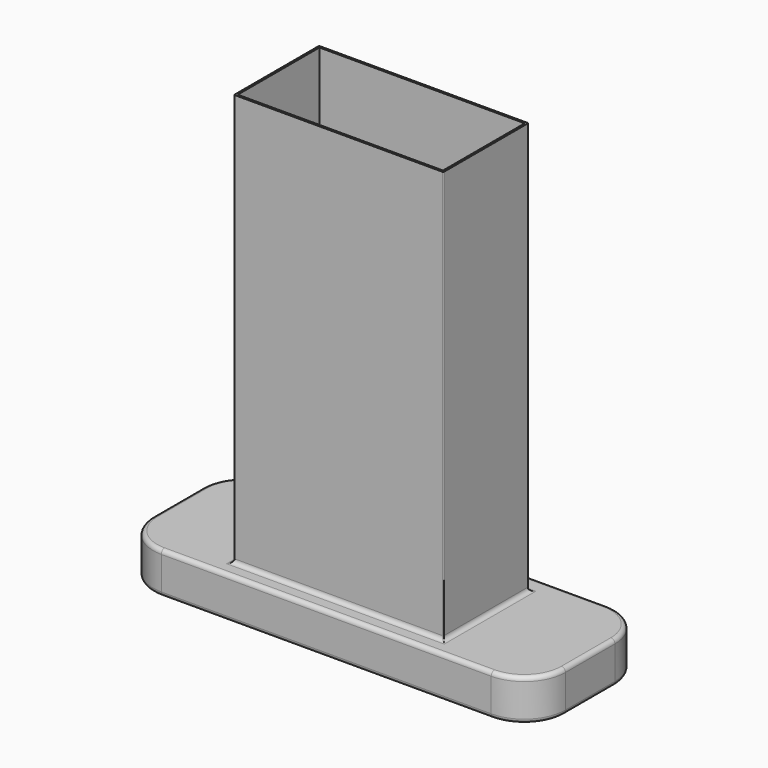
from build123d import *

# Parameters (mm, degrees)
F1_DEPTH = 20
F2_W     = 101.5
F2_H     = 51.5
F3_DEPTH = 200
F4_T     = -1
F5_R     = 2
F6_R     = 0.5


with BuildPart() as f1:
    # F0 (on Top) → F1 (new body)
    with BuildSketch(Plane.XY):
        with BuildLine():
            Line((80, 35), (-80, 35))
            ThreePointArc((-80, 35), (-94.1421356237, 29.1421356237), (-100, 15))
            Line((-100, 15), (-100, -15))
            ThreePointArc((-100, -15), (-94.1421356237, -29.1421356237), (-80, -35))
            Line((-80, -35), (80, -35))
            ThreePointArc((80, -35), (94.1421356237, -29.1421356237), (100, -15))
            Line((100, -15), (100, 15))
            ThreePointArc((100, 15), (94.1421356237, 29.1421356237), (80, 35))
        make_face()
    extrude(amount=F1_DEPTH)

    # F2 (on face) → F3 (join)
    with BuildSketch(Plane.XY.offset(20)):
        with Locations((-0.75, -0.75)):
            Rectangle(F2_W, F2_H)
    extrude(amount=F3_DEPTH)

    # F4
    f4_openings = [f1.faces().sort_by_distance(p)[0] for p in [
        (-0.75, -0.75, 220),
    ]]
    offset(amount=F4_T, openings=f4_openings, kind=Kind.INTERSECTION)

    # F5
    f5_edges = [f1.edges().sort_by_distance(p)[0] for p in [
        (94.142136, -29.142136, 20),
        (100, 0, 20),
        (94.142136, 29.142136, 20),
        (0, -35, 20),
        (0, 35, 20),
        (-94.142136, -29.142136, 20),
        (-94.142136, 29.142136, 20),
        (-100, 0, 20),
        (-0.75, 25, 20),
        (-51.5, -0.75, 20),
        (-0.75, -26.5, 20),
        (50, -0.75, 20),
        (100, 15, 10),
        (80, 35, 10),
        (94.142136, 29.142136, 0),
        (-80, 35, 10),
        (0, 35, 0),
        (-100, 15, 10),
        (-94.142136, 29.142136, 0),
        (-100, -15, 10),
        (-100, 0, 0),
        (-80, -35, 10),
        (-94.142136, -29.142136, 0),
        (80, -35, 10),
        (0, -35, 0),
    ]]
    fillet(f5_edges, radius=F5_R)

    # F6
    f6_edges = [f1.edges().sort_by_distance(p)[0] for p in [
        (-51.5, -26.5, 121),
        (-51.5, 25, 121),
        (50, -26.5, 121),
        (50, 25, 121),
    ]]
    fillet(f6_edges, radius=F6_R)


solid = f1.part
